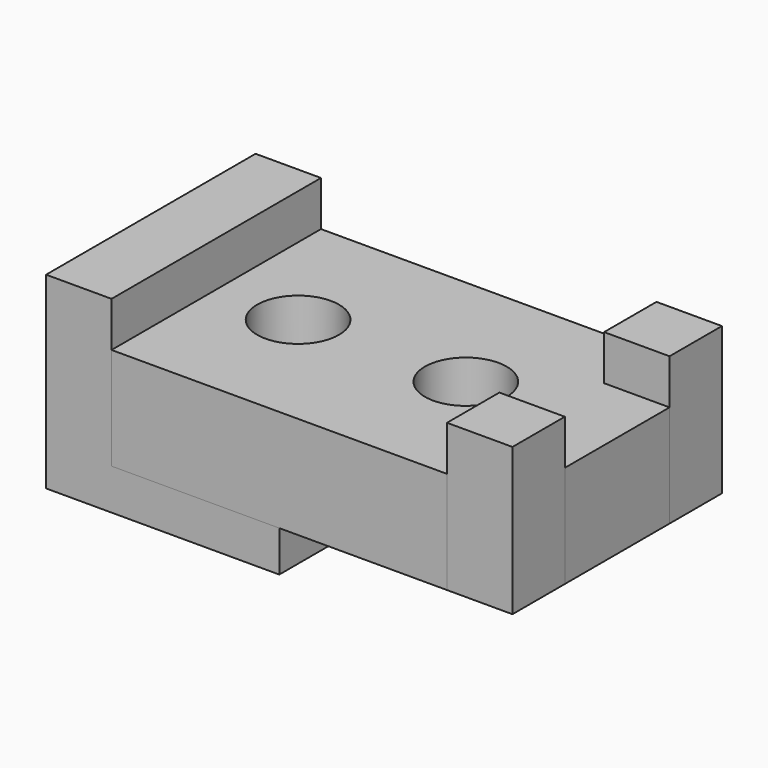
from build123d import *

# Parameters (mm, degrees)
F0_W     = 41
F0_H     = 64
F0_R     = 10
F0_W_2   = 16
F1_DEPTH = 10
F0_H_2   = 16
F2_DEPTH = 36
F0_H_3   = 32
F3_DEPTH = 25


with BuildPart() as f1:
    # F0 (on Top) → F1 (new body)
    with BuildSketch(Plane.XY):
        with Locations((-20.5, 8.3420926728)):
            Rectangle(F0_W, F0_H)
        with Locations((-21, 8.3420926728)):
            Circle(F0_R, mode=Mode.SUBTRACT)
        with Locations((-49, 8.3420926728)):
            Rectangle(F0_W_2, F0_H)
    extrude(amount=-F1_DEPTH)

    # F0 (on Top) → F2, piece 3 (join)
    with BuildSketch(Plane.XY):
        with Locations((-49, 8.3420926728)):
            Rectangle(F0_W_2, F0_H)
    extrude(amount=F2_DEPTH)


with BuildPart() as f2:
    # F0 (on Top) → F2 (new body)
    with BuildSketch(Plane.XY):
        with Locations((49, 32.3420926728)):
            Rectangle(F0_W_2, F0_H_2)
    extrude(amount=F2_DEPTH)


with BuildPart() as f2b:
    # F0 (on Top) → F2, piece 2 (new body)
    with BuildSketch(Plane.XY):
        with Locations((49, -15.6579073272)):
            Rectangle(F0_W_2, F0_H_2)
    extrude(amount=F2_DEPTH)


with BuildPart() as f3:
    # F0 (on Top) → F3 (new body)
    with BuildSketch(Plane.XY):
        with Locations((-20.5, 8.3420926728)):
            Rectangle(F0_W, F0_H)
        with Locations((-21, 8.3420926728)):
            Circle(F0_R, mode=Mode.SUBTRACT)
        Polygon((0, 40.3420926728), (0, -23.6579073272), (41, -23.6579073272), (41, -7.6579073272), (41, 24.3420926728), (41, 40.3420926728), align=None)
        with Locations((20, 8.3420926728)):
            Circle(F0_R, mode=Mode.SUBTRACT)
        with Locations((49, 8.3420926728)):
            Rectangle(F0_W_2, F0_H_3)
    extrude(amount=F3_DEPTH)


solid = Compound([f1.part, f2.part, f2b.part, f3.part])
